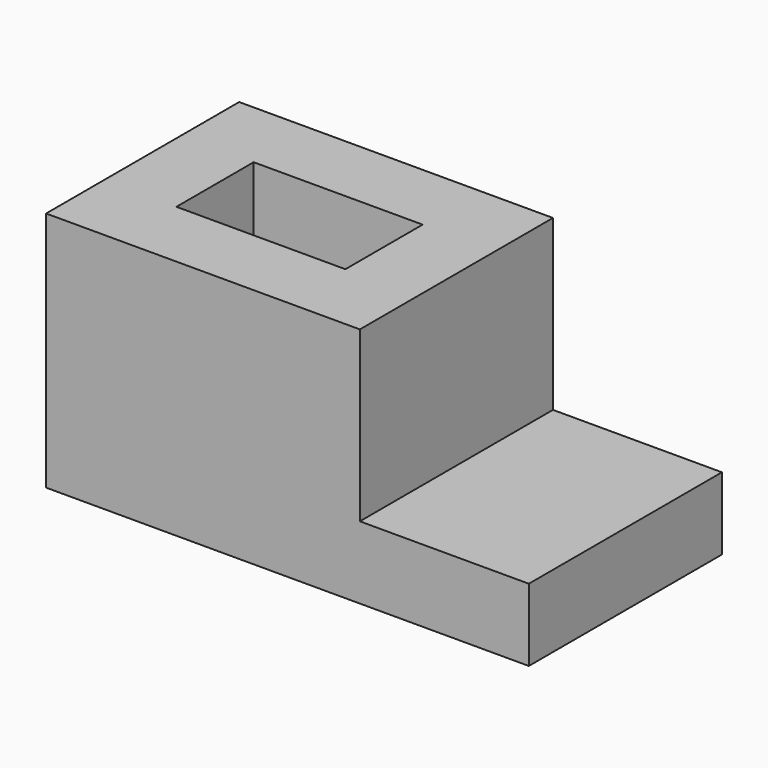
from build123d import *

# Parameters (mm, degrees)
F0_W     = 82.55
F0_H     = 63.5
F0_W_2   = 44.45
F0_H_2   = 25.4
F1_DEPTH = 63.5
F2_W     = 44.45
F2_H     = 63.5
F3_DEPTH = 19.05


with BuildPart() as f1:
    # F0 (on Top) → F1 (new body)
    with BuildSketch(Plane.XY):
        with Locations((-41.275, 31.75)):
            Rectangle(F0_W, F0_H)
        with Locations((-41.275, 31.75)):
            Rectangle(F0_W_2, F0_H_2, mode=Mode.SUBTRACT)
    extrude(amount=F1_DEPTH)

    # F2 (on Top) → F3 (join)
    with BuildSketch(Plane.XY):
        with Locations((22.225, 31.75)):
            Rectangle(F2_W, F2_H)
    extrude(amount=F3_DEPTH)


solid = f1.part
